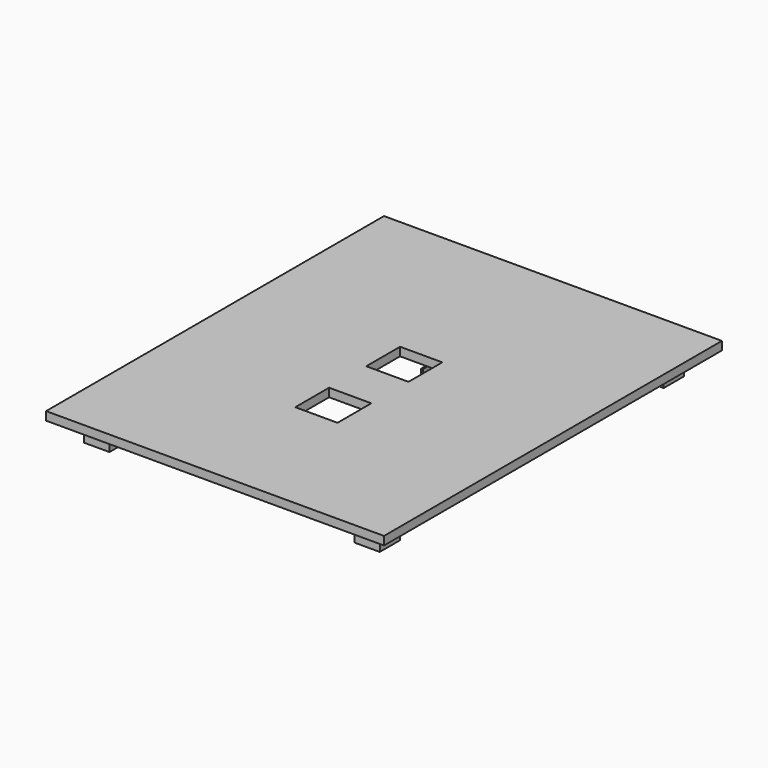
from build123d import *

# Parameters (mm, degrees)
F0_W     = 400
F0_H     = 500
F0_W_2   = 50
F0_H_2   = 50
F1_DEPTH = 10
F2_W     = 30
F2_H     = 30
F2_R     = 5
F3_DEPTH = 25
F5_DEPTH = 190


with BuildPart() as f1:
    # F0 (on Top) → F1 (new body)
    with BuildSketch(Plane.XY):
        Rectangle(F0_W, F0_H)
        with Locations((0, -75)):
            Rectangle(F0_W_2, F0_H_2, mode=Mode.SUBTRACT)
        with Locations((0, 30)):
            Rectangle(F0_W_2, F0_H_2, mode=Mode.SUBTRACT)
    extrude(amount=F1_DEPTH)

    # F2 (on face) → F3 (join)
    with BuildSketch(Plane(origin=(0, 0, 0), x_dir=(1, 0, 0), z_dir=(0, 0, -1))):
        with Locations((160, 210)):
            Rectangle(F2_W, F2_H)
        with Locations((160, 210)):
            Circle(F2_R, mode=Mode.SUBTRACT)
        with Locations((160, -210)):
            Rectangle(F2_W, F2_H)
        with Locations((160, -210)):
            Circle(F2_R, mode=Mode.SUBTRACT)
        with Locations((-160, -210)):
            Rectangle(F2_W, F2_H)
        with Locations((-160, -210)):
            Circle(F2_R, mode=Mode.SUBTRACT)
        with Locations((-160, 210)):
            Rectangle(F2_W, F2_H)
        with Locations((-160, 210)):
            Circle(F2_R, mode=Mode.SUBTRACT)
    extrude(amount=F3_DEPTH)

    # F4 (on face) → F5 (join)
    with BuildSketch(Plane(origin=(0, 250, 0), x_dir=(-1, 0, 0), z_dir=(0, 1, 0))):
        Polygon((4, -20), (4, -8), (2, -8), (2, -18), (-9, -18), (-9, 0), (-26, 0), (-26, -2), (-11, -2), (-11, -20), align=None)
    extrude(amount=-F5_DEPTH)


solid = f1.part
